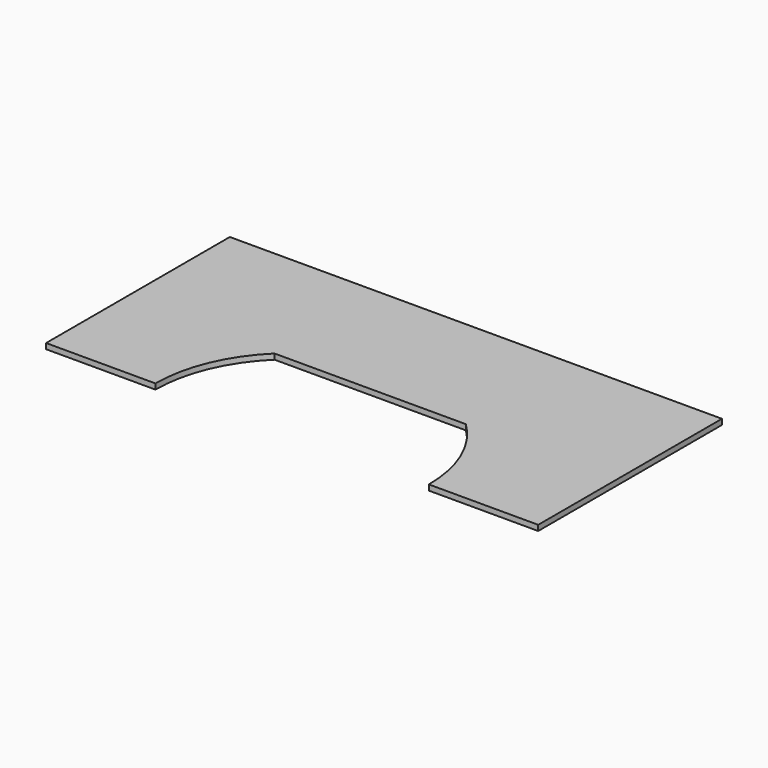
from build123d import *

# Parameters (mm, degrees)
F1_DEPTH = 25.4
F2_DEPTH = 25.4


with BuildPart() as f1:
    # F0 (on Top) → F1 (new body)
    with BuildSketch(Plane.XY):
        with BuildLine():
            Line((0, 609.6), (-1143, 609.6))
            Line((-1143, 609.6), (-1143, 0))
            Line((-1143, 0), (-1143, -457.2))
            Line((-1143, -457.2), (-635, -457.2))
            ThreePointArc((-635, -457.2), (-585.441073, -211.265558), (-444.5, -3.719295))
            Line((-444.5, -3.719295), (444.5, -3.719295))
            ThreePointArc((444.5, -3.719295), (585.441073, -211.265558), (635, -457.2))
            Line((635, -457.2), (1143, -457.2))
            Line((1143, -457.2), (1143, 0))
            Line((1143, 0), (1143, 609.6))
            Line((1143, 609.6), (0, 609.6))
        make_face()
    extrude(amount=F1_DEPTH)

    # F0 (on Top) → F2 (join)
    with BuildSketch(Plane.XY):
        with BuildLine():
            Line((0, 609.6), (-1143, 609.6))
            Line((-1143, 609.6), (-1143, 0))
            Line((-1143, 0), (-1143, -457.2))
            Line((-1143, -457.2), (-635, -457.2))
            ThreePointArc((-635, -457.2), (-585.441073, -211.265558), (-444.5, -3.719295))
            Line((-444.5, -3.719295), (444.5, -3.719295))
            ThreePointArc((444.5, -3.719295), (585.441073, -211.265558), (635, -457.2))
            Line((635, -457.2), (1143, -457.2))
            Line((1143, -457.2), (1143, 0))
            Line((1143, 0), (1143, 609.6))
            Line((1143, 609.6), (0, 609.6))
        make_face()
    extrude(amount=F2_DEPTH)


solid = f1.part
